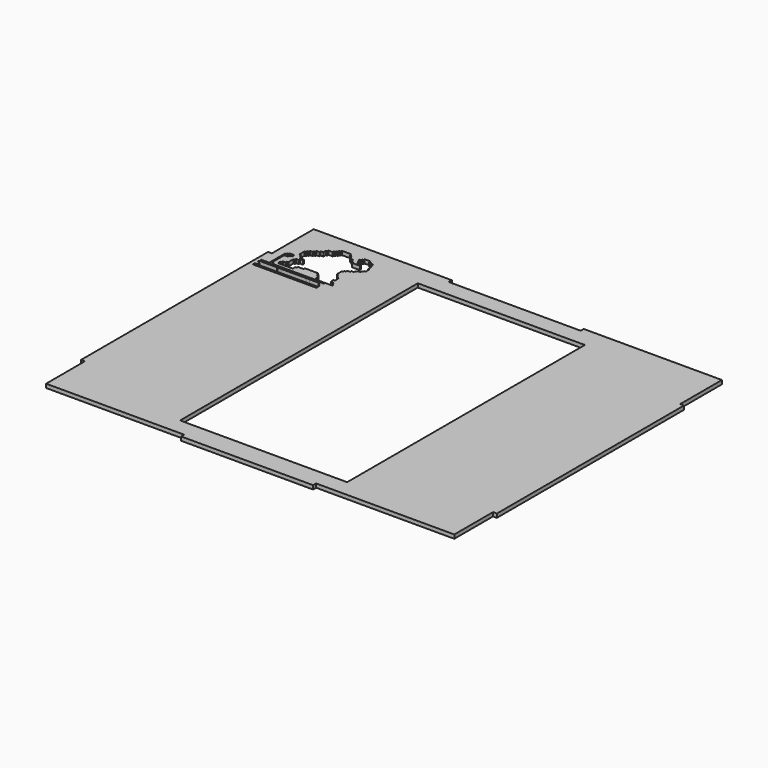
from build123d import *

# Parameters (mm, degrees)
F0_W     = 194
F0_H     = 345
F1_DEPTH = 4.45


with BuildPart() as f1:
    # F0 (on Top) → F1 (new body)
    with BuildSketch(Plane.XY):
        Polygon((76.58256, -192), (236.9999995204, -192), (236.9999995204, -135.755765), (241.4499995204, -135.755765), (241.4499995204, 135.755765), (236.9999995204, 135.755765), (236.9999995204, 192), (236.9999995204, 196.45), (76.58256, 196.45), (76.58256, 192), (-76.58256, 192), (-76.58256, 196.45), (-236.9999995204, 196.45), (-236.9999995204, 192), (-236.9999995204, 135.755765), (-241.4499995204, 135.755765), (-241.4499995204, -135.755765), (-236.9999995204, -135.755765), (-236.9999995204, -192), (-76.58256, -192), (-76.58256, -196.45), (76.58256, -196.45), align=None)
        Polygon((-236.9999995204, 117.1182990074), (-234.2627495527, 117.1182990074), (-227.2047102451, 117.1182990074), (-222.9320257902, 117.1182990074), (-215.8740013838, 117.1182990074), (-215.8740013838, 117.1453371644), (-211.5742713213, 117.1453371644), (-211.5742713213, 117.1182990074), (-182.5267970562, 117.1182990074), (-182.5267970562, 117.1295270324), (-178.2541126013, 117.1295270324), (-178.2541126013, 117.1182990074), (-171.0992455482, 117.1182990074), (-166.8241769075, 117.1182990074), (-166.8241769075, 115.6037822366), (-165.3233468533, 115.6037822366), (-165.3233468533, 114.0802204609), (-163.981705904, 114.0802204609), (-163.981705904, 112.6703545451), (-163.1904395904, 112.6703545451), (-163.1904395904, 109.6275821328), (-163.1896294594, 108.0422112533), (-236.9999995204, 108.0422112533), (-236.9999995204, 109.6275821328), (-236.9999995204, 111.0878661275), (-232.856541872, 111.0878661275), (-232.856541872, 112.6022338867), (-234.2627495527, 112.6022338867), (-234.2627495527, 114.1166016459), (-235.6959879398, 114.1166016459), (-235.6959879398, 115.6309694052), (-236.9999995204, 115.6309694052), align=None, mode=Mode.SUBTRACT)
        Polygon((-163.2087387005, 119.9465234999), (-163.2080674171, 118.6328679323), (-236.9999995204, 118.6328679323), (-236.9999995204, 119.9465234999), (-227.4415194988, 119.9465234999), (-227.4415194988, 129.2326003313), (-227.4415194988, 132.1590691805), (-227.4415194988, 141.1639153957), (-227.4415194988, 142.7545696497), (-226.026520133, 142.7545696497), (-226.026520133, 144.1052407026), (-224.6115356684, 144.1052407026), (-224.6115356684, 144.2470699549), (-224.6115356684, 145.6728130579), (-220.3102260828, 145.6728130579), (-218.8837826252, 145.6728130579), (-218.8837826252, 144.2470699549), (-218.8837826252, 142.6467746496), (-220.2622592449, 142.6467746496), (-220.2622592449, 141.4038985968), (-221.6963768005, 141.4038985968), (-221.6963768005, 141.1639153957), (-221.6963768005, 139.7316306829), (-223.1575548649, 139.7316306829), (-224.6115356684, 139.7316306829), (-225.8978933096, 139.7316306829), (-225.8978933096, 132.1590691805), (-225.8978933096, 129.2326003313), (-225.8978933096, 122.9447051883), (-224.6115356684, 122.9447051883), (-224.6115356684, 121.6044425964), (-224.6115356684, 121.4653924108), (-223.2608646154, 121.4653924108), (-223.2608646154, 119.9465234999), align=None, mode=Mode.SUBTRACT)
        Polygon((-211.5551829338, 124.1696625948), (-220.8831012249, 124.1696625948), (-220.9539115429, 127.7677565813), (-219.3512916565, 127.7677565813), (-219.3512916565, 129.6928375959), (-216.2222117186, 129.6928375959), (-216.2222117186, 131.5274983644), (-214.5517319441, 131.5274983644), (-214.5517319441, 135.2371275425), (-214.5517319441, 138.9467567205), (-212.9837423563, 138.9467567205), (-212.9837423563, 140.8206820488), (-209.9242657423, 140.8206820488), (-209.9242657423, 142.5416469574), (-209.9242657423, 142.5753682852), (-206.4440995455, 142.5753682852), (-206.4440995455, 144.262611866), (-211.3392800093, 144.262611866), (-211.3392800093, 146.2512761354), (-213.0219936371, 146.2512761354), (-213.0219936371, 147.9722261429), (-214.4614160061, 147.9722261429), (-214.4614160061, 149.8854756355), (-216.2222117186, 149.8854756355), (-216.2222117186, 157.2691947222), (-214.6158963442, 157.2691947222), (-214.6158963442, 159.1486334801), (-213.020414114, 159.1486334801), (-213.020414114, 161.0415875912), (-209.8670601845, 161.0415875912), (-209.8670601845, 162.7945750952), (-208.2241177559, 162.7945750952), (-208.2241177559, 164.6478623152), (-204.98457551, 164.6478623152), (-204.98457551, 166.5781736374), (-203.42964679, 166.5781736374), (-201.87471807, 166.5781736374), (-201.87471807, 170.1685935259), (-200.3603428602, 170.1685935259), (-200.3603428602, 172.0677614212), (-197.2631514072, 172.0677614212), (-195.5197751522, 172.0677614212), (-195.5197751522, 173.9877611399), (-193.8161104918, 173.9877611399), (-193.8161104918, 175.6678968668), (-192.3287957907, 175.6678968668), (-192.3287957907, 177.5843799114), (-190.6792074442, 177.5843799114), (-190.6792074442, 179.2609989643), (-179.6459555626, 179.2609989643), (-179.6459555626, 177.6384711266), (-178.08149755, 177.6384711266), (-178.08149755, 177.5843799114), (-178.08149755, 175.6678968668), (-176.6102313995, 175.6678968668), (-176.6102313995, 173.8107204437), (-174.9460101128, 173.8107204437), (-174.9460101128, 172.0677614212), (-174.9460101128, 171.9696223736), (-171.8195825815, 171.9696223736), (-171.8195825815, 170.1685935259), (-170.0530946255, 170.1685935259), (-170.0530946255, 168.3392077684), (-168.6858832836, 168.3392077684), (-168.6858832836, 166.4609164), (-159.3150049448, 166.4609164), (-159.3150049448, 168.2755351067), (-164.0439629555, 168.2755351067), (-164.0439629555, 170.1685935259), (-165.5974984169, 170.1685935259), (-165.5974984169, 172.0387935638), (-165.5974984169, 173.7947016954), (-167.0985519886, 173.7947016954), (-167.0985519886, 175.7738143206), (-165.4482334852, 175.7738143206), (-165.4482334852, 177.5190830231), (-164.0149950981, 177.5190830231), (-164.0149950981, 179.297670722), (-157.6442122459, 179.297670722), (-157.6442122459, 177.5208860636), (-154.4273197651, 177.5208860636), (-154.4273197651, 175.6878197193), (-151.2335091829, 175.6878197193), (-151.2335091829, 172.0649003983), (-149.8326212168, 172.0649003983), (-149.8326212168, 166.4335280657), (-148.1281965971, 166.4335280657), (-148.1281965971, 160.8237177134), (-149.8326212168, 160.8237177134), (-149.8326212168, 158.9906811714), (-151.352122426, 158.9906811714), (-151.352122426, 157.0169180632), (-154.4273197651, 157.0169180632), (-154.4273197651, 155.3808450699), (-155.9498459101, 155.3808450699), (-155.9498459101, 153.5308808088), (-158.9021980762, 153.5308808088), (-158.9021980762, 151.6987085342), (-162.201359868, 151.6987085342), (-162.201359868, 149.6975719929), (-163.9320552349, 149.6975719929), (-163.9320552349, 147.8586941957), (-165.4464304447, 147.8586941957), (-165.4464304447, 142.602160573), (-165.4464304447, 140.8817917109), (-163.9320552349, 140.8817917109), (-163.9320552349, 138.8925462961), (-163.9175415039, 138.8925462961), (-162.4176949263, 138.8925462961), (-162.4176949263, 137.0958685875), (-160.8492434025, 137.0958685875), (-160.8492434025, 135.2569907904), (-159.0103656054, 135.2569907904), (-159.0103656054, 129.5781135559), (-160.6869846582, 129.5781135559), (-160.6869846582, 126.0085403919), (-159.0988636017, 126.0085403919), (-157.5500816107, 126.0085403919), (-157.5500816107, 124.2778301239), (-155.9275388718, 124.2778301239), (-155.9275388718, 122.2767010331), (-154.4131785631, 122.2767010331), (-154.4131785631, 120.4919144511), (-155.9275388718, 120.4919144511), (-157.5500816107, 120.4919144511), (-173.4509468079, 120.4919144511), (-173.4509468079, 122.3307922482), (-175.0734746456, 122.3307922482), (-175.0734746456, 125.9003728628), (-176.6419261694, 125.9003728628), (-176.6419261694, 127.6851594448), (-178.2644689083, 127.6851594448), (-178.2644689083, 129.6928375959), (-179.8329204321, 129.6928375959), (-179.8329204321, 131.4710825682), (-181.3236027956, 131.4710825682), (-182.9696297646, 131.4710825682), (-184.4802498817, 131.4710825682), (-186.0482394695, 131.4710825682), (-187.648139894, 131.4710825682), (-189.2319619656, 131.4710825682), (-190.7146424055, 131.4710825682), (-193.9412206411, 131.4710825682), (-195.4633593559, 131.4710825682), (-195.4633593559, 129.632204771), (-201.7912566662, 129.632204771), (-201.7912566662, 127.7933269739), (-203.521952033, 127.7933269739), (-203.521952033, 125.9803175926), (-203.521952033, 124.1696625948), (-209.8724395037, 124.1696625948), align=None, mode=Mode.SUBTRACT)
        Rectangle(F0_W, F0_H, mode=Mode.SUBTRACT)
    extrude(amount=F1_DEPTH)


solid = f1.part
